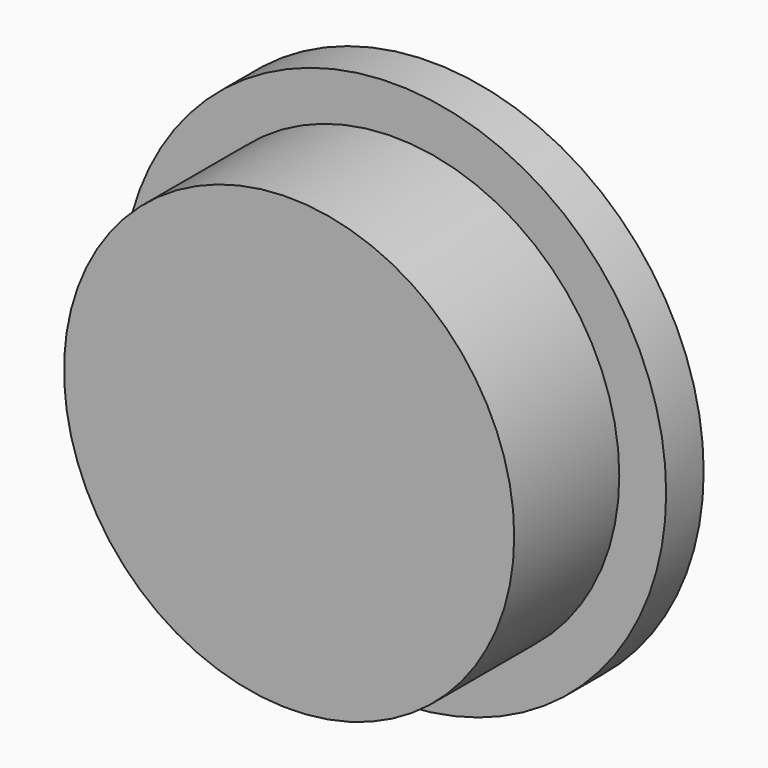
from build123d import *

# Parameters (mm, degrees)
F0_R     = 5.8
F0_R_2   = 4.8
F1_DEPTH = 1
F2_DEPTH = 3.8
F3_R     = 1.2
F4_DEPTH = 1


with BuildPart() as f1:
    # F0 (on Front) → F1 (new body)
    with BuildSketch(Plane.XZ):
        Circle(F0_R)
        Circle(F0_R_2, mode=Mode.SUBTRACT)
        Circle(F0_R_2)
    extrude(amount=F1_DEPTH)

    # F0 (on Front) → F2 (join)
    with BuildSketch(Plane.XZ):
        Circle(F0_R_2)
    extrude(amount=F2_DEPTH)

    # F3 (on face) → F4 (join)
    with BuildSketch(Plane.XZ):
        Circle(F3_R)
    extrude(amount=-F4_DEPTH)


solid = f1.part
